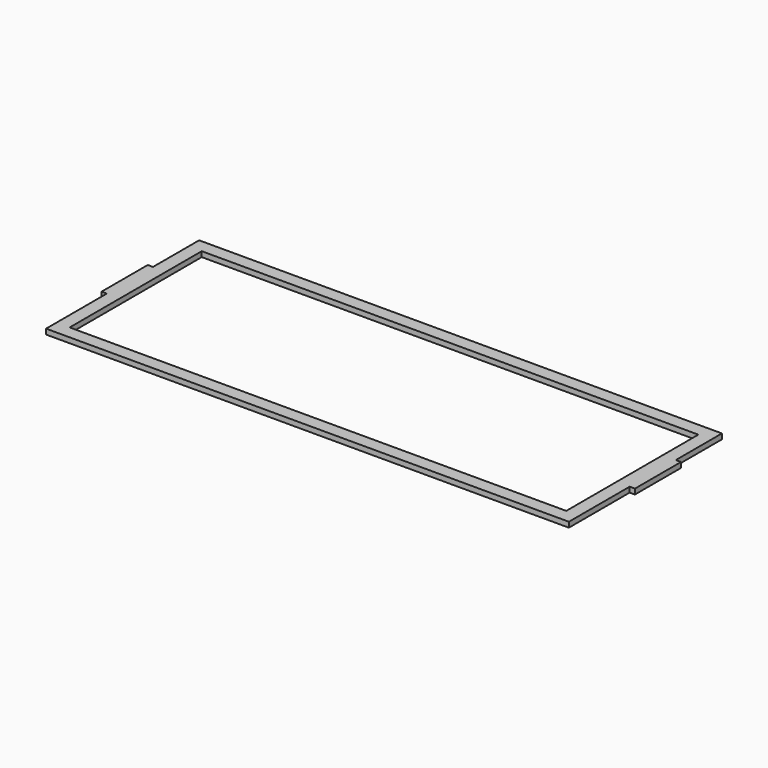
from build123d import *

# Parameters (mm, degrees)
F0_W     = 189.5
F0_H     = 63
F1_DEPTH = 2


with BuildPart() as f1:
    # F0 (on Top) → F1 (new body)
    with BuildSketch(Plane.XY):
        Polygon((96.5, 73), (-103, 73), (-103, 51), (-105, 51), (-105, 29), (-103, 29), (-103, 0), (96.5, 0), (96.5, 29), (98.5, 29), (98.5, 51), (96.5, 51), align=None)
        with Locations((-3.25, 36.5)):
            Rectangle(F0_W, F0_H, mode=Mode.SUBTRACT)
    extrude(amount=F1_DEPTH)


solid = f1.part
